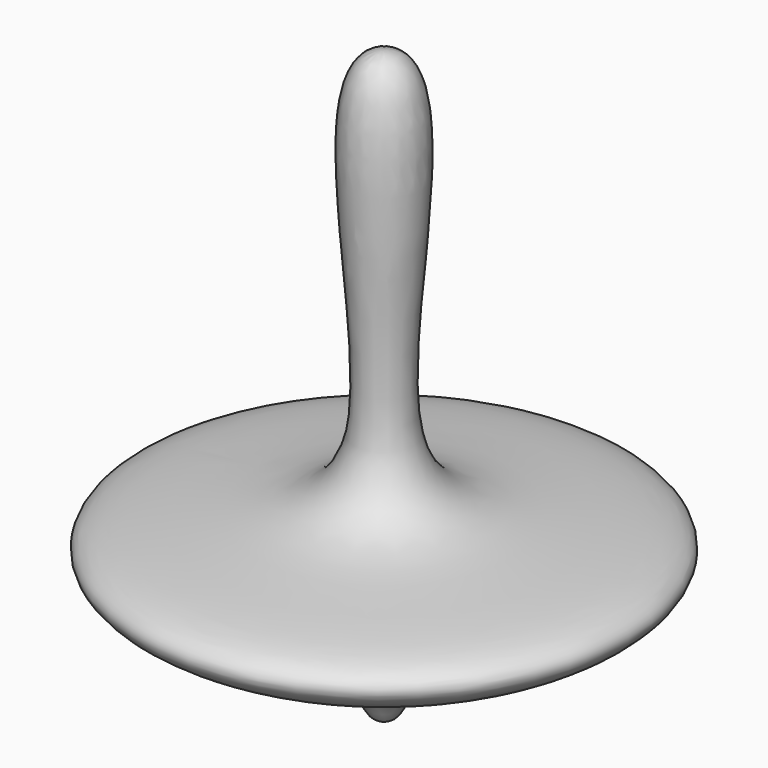
from build123d import *


with BuildPart() as f1:
    # F0 (on Front) → F1 (revolve)
    with BuildSketch(Plane.XZ):
        with BuildLine():
            add(Edge.make_bspline(
                [(0, 60), (-7.469338131, 60), (1.9141571915, 23.1841433753), (-10.4486706927, 18.1033543673), (-24.8483630528, 17.858315155), (-25.5839829475, 12.2541161079), (-0.9222800126, 5.5363577309), (-1.7499621998, 0), (0, 0)],
                knots=[0, 0, 0, 0, 0.2695176928, 0.4301489852, 0.5984801028, 0.6719435559, 0.8984634817, 1, 1, 1, 1], degree=3))
            Line((0, 0), (0, 60))
        make_face()
    revolve(axis=Axis((0, 0, 30), (0, 0, 1)))


solid = f1.part
